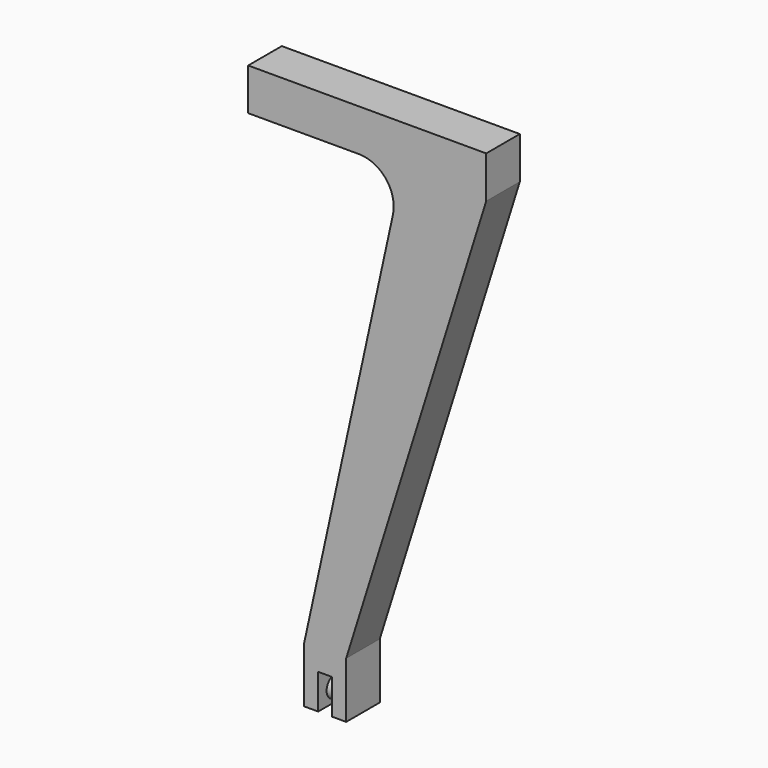
from build123d import *

# Parameters (mm, degrees)
F1_DEPTH = 30
F2_R     = 7.5
F3_DEPTH = 22.9


with BuildPart() as f1:
    # F0 (on Front) → F1 (new body)
    with BuildSketch(Plane.XZ):
        with BuildLine():
            ThreePointArc((78.940095, 350), (98.415214, 340.67545), (103.362595, 319.657578))
            Line((103.362595, 319.657578), (40, 30))
            Line((40, 30), (40, 0))
            Line((40, 0), (40, -10))
            Line((40, -10), (50, -10))
            Line((50, -10), (50, 15))
            Line((50, 15), (60, 15))
            Line((60, 15), (60, -10))
            Line((60, -10), (70, -10))
            Line((70, -10), (70, 0))
            Line((70, 0), (70, 30))
            Line((70, 30), (170, 350))
            Line((170, 350), (170, 380))
            Line((170, 380), (0, 380))
            Line((0, 380), (0, 350))
            Line((0, 350), (78.940095, 350))
        make_face()
    extrude(amount=F1_DEPTH)

    # F2 (on face) → F3 (join)
    with BuildSketch(Plane.YZ.offset(70)):
        with Locations((-15, 0)):
            Circle(F2_R)
    extrude(amount=-F3_DEPTH)


solid = f1.part
